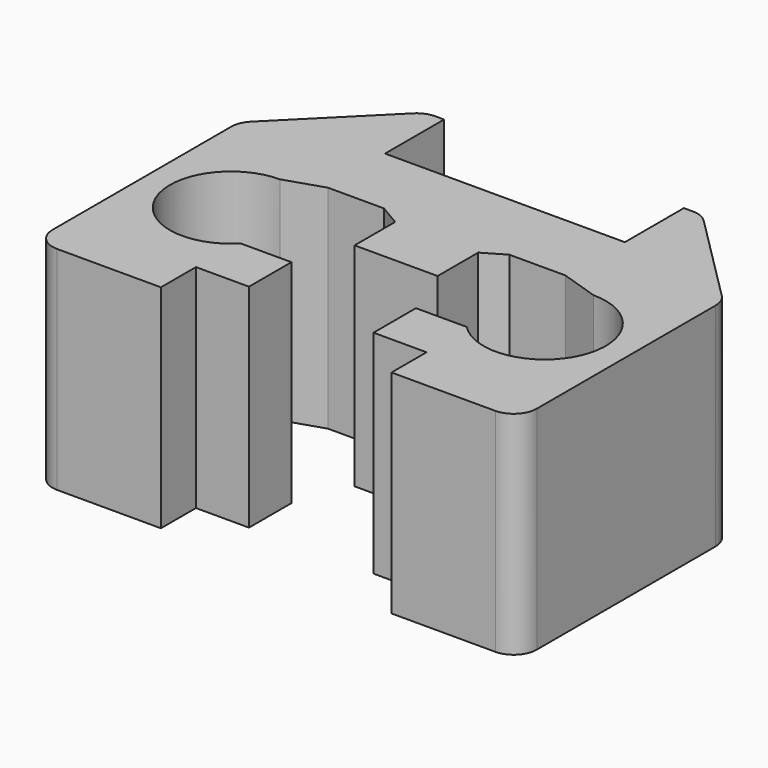
from build123d import *

# Parameters (mm, degrees)
F1_DEPTH = 9.2
F2_R     = 1


with BuildPart() as f1:
    # F0 (on Top) → F1 (new body)
    with BuildSketch(Plane.XY):
        with BuildLine():
            Line((-10.5, 12.3), (-10.5, 1.2))
            Line((-10.5, 1.2), (-5, 1.2))
            Line((-5, 1.2), (-5, 3.1))
            Line((-5, 3.1), (-2.7, 3.1))
            Line((-2.7, 3.1), (-2.7, 5.4))
            Line((-2.7, 5.4), (-4.902633, 5.4))
            ThreePointArc((-4.902633, 5.4), (-9.241823, 6.220437), (-6.8, 9.9))
            Line((-6.8, 9.9), (-5.149315, 10.438116))
            Line((-5.149315, 10.438116), (-2.717693, 10.438116))
            Line((-2.717693, 10.438116), (-1.8, 9.9))
            Line((-1.8, 9.9), (-1.8, 7.7))
            Line((-1.8, 7.7), (0, 7.7))
            Line((0, 7.7), (1.8, 7.7))
            Line((1.8, 7.7), (1.8, 9.9))
            Line((1.8, 9.9), (2.717693, 10.438116))
            Line((2.717693, 10.438116), (5.149315, 10.438116))
            Line((5.149315, 10.438116), (6.8, 9.9))
            ThreePointArc((6.8, 9.9), (9.241823, 6.220437), (4.902633, 5.4))
            Line((4.902633, 5.4), (2.7, 5.4))
            Line((2.7, 5.4), (2.7, 3.1))
            Line((2.7, 3.1), (5, 3.1))
            Line((5, 3.1), (5, 1.2))
            Line((5, 1.2), (10.5, 1.2))
            Line((10.5, 1.2), (10.5, 12.3))
            Line((10.5, 12.3), (6, 16.8))
            Line((6, 16.8), (5.2, 16.8))
            Line((5.2, 16.8), (5.2, 13.6))
            Line((5.2, 13.6), (0, 13.6))
            Line((0, 13.6), (-5.2, 13.6))
            Line((-5.2, 13.6), (-5.2, 16.8))
            Line((-5.2, 16.8), (-6, 16.8))
            Line((-6, 16.8), (-10.5, 12.3))
        make_face()
    extrude(amount=F1_DEPTH)

    # F2
    f2_edges = [f1.edges().sort_by_distance(p)[0] for p in [
        (-10.5, 1.2, 4.6),
        (10.5, 1.2, 4.6),
        (10.5, 12.3, 4.6),
        (6, 16.8, 4.6),
        (-6, 16.8, 4.6),
        (-10.5, 12.3, 4.6),
    ]]
    fillet(f2_edges, radius=F2_R)


solid = f1.part
